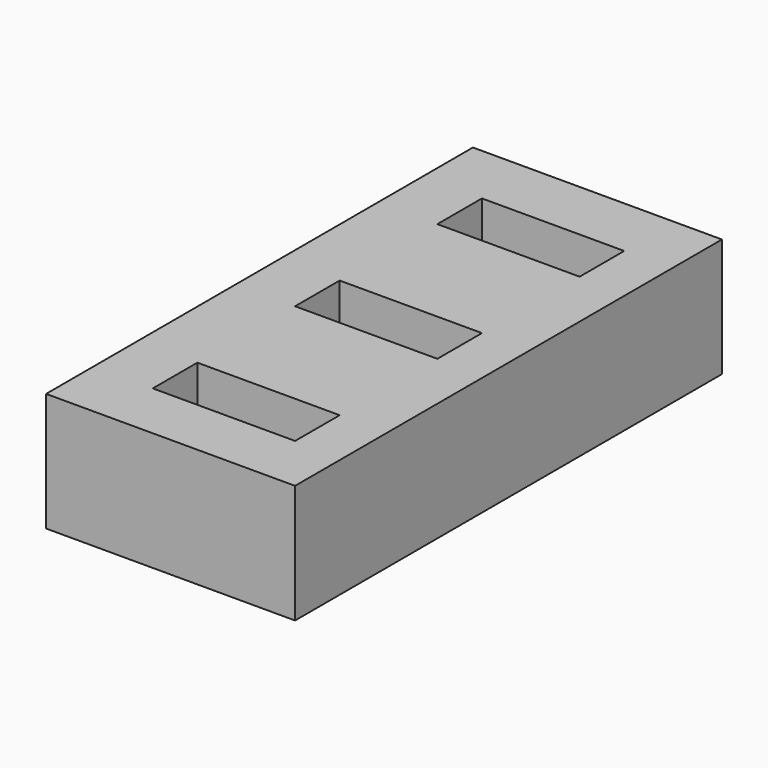
from build123d import *

# Parameters (mm, degrees)
BOX001_W     = 12
BOX001_H     = 4.7
BOX001_DEPTH = 11
BOX002_W     = 12
BOX002_H     = 4.7
BOX002_DEPTH = 11
BOX_W        = 12
BOX_H        = 4.7
BOX_DEPTH    = 11
BOX003_W     = 21
BOX003_H     = 45
BOX003_DEPTH = 10


with BuildPart() as box001:
    # Box001 → Box001 (new body)
    with BuildSketch(Plane(origin=(0, 15, 0), x_dir=(1, 0, 0), z_dir=(0, 0, 1))):
        with Locations((6, 2.35)):
            Rectangle(BOX001_W, BOX001_H)
    extrude(amount=BOX001_DEPTH)


with BuildPart() as box002:
    # Box002 → Box002 (new body)
    with BuildSketch(Plane(origin=(0, 30, 0), x_dir=(1, 0, 0), z_dir=(0, 0, 1))):
        with Locations((6, 2.35)):
            Rectangle(BOX002_W, BOX002_H)
    extrude(amount=BOX002_DEPTH)


with BuildPart() as ranuras:
    # Box → Box (new body)
    with BuildSketch(Plane.XY):
        with Locations((6, 2.35)):
            Rectangle(BOX_W, BOX_H)
    extrude(amount=BOX_DEPTH)

    # Fusion: union Box001, Box002
    add(box001.part)
    add(box002.part)


with BuildPart() as ranuras_1:
    # Fusion placement: moved
    add(ranuras.part.moved(Location((5, 5, 3))))


with BuildPart() as porta_pendrives:
    # Box003 → Box003 (new body)
    with BuildSketch(Plane.XY):
        with Locations((10.5, 22.5)):
            Rectangle(BOX003_W, BOX003_H)
    extrude(amount=BOX003_DEPTH)

    # Cut: cut Ranuras
    add(ranuras_1.part, mode=Mode.SUBTRACT)


solid = porta_pendrives.part
